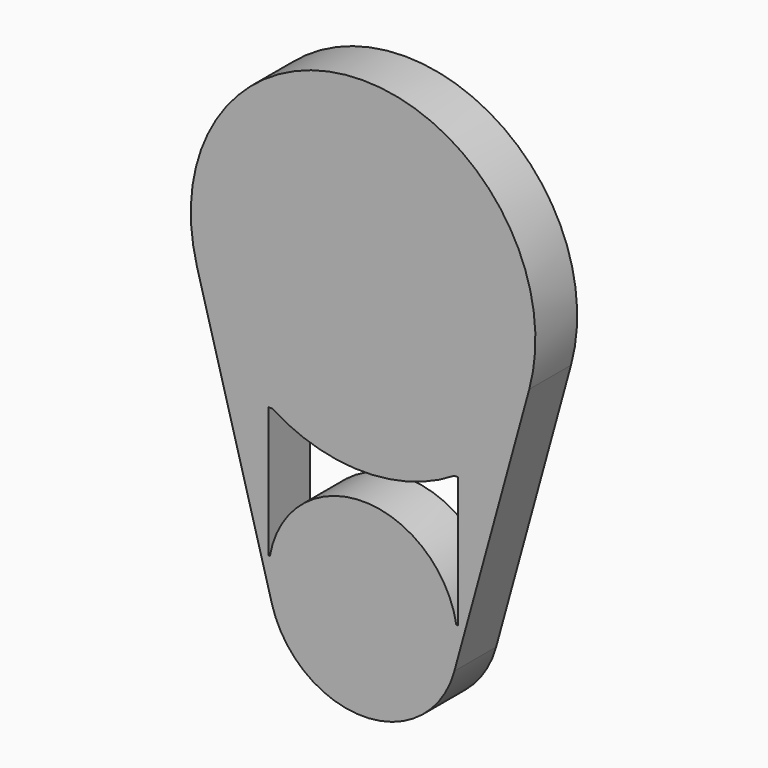
from build123d import *

# Parameters (mm, degrees)
F1_DEPTH = 25.4


with BuildPart() as f1:
    # F0 (on Front) → F1 (new body)
    with BuildSketch(Plane.XZ):
        with BuildLine():
            Line((44.391164, -51.888976), (80.822532, 80.6549))
            ThreePointArc((80.822532, 80.6549), (0, 186.69), (-80.822532, 80.6549))
            Line((-80.822532, 80.6549), (-44.391164, -51.888976))
            ThreePointArc((-44.391164, -51.888976), (0, -85.725), (44.391164, -51.888976))
        make_face()
        with BuildLine():
            Line((44.359193, 31.75), (46.0375, 31.75))
            Line((46.0375, 31.75), (46.0375, -31.75))
            Line((46.0375, -31.75), (45.348071, -31.75))
            ThreePointArc((45.348071, -31.75), (0, 6.35), (-45.348071, -31.75))
            Line((-45.348071, -31.75), (-46.0375, -31.75))
            Line((-46.0375, -31.75), (-46.0375, 31.75))
            Line((-46.0375, 31.75), (-44.359193, 31.75))
            ThreePointArc((-44.359193, 31.75), (0, 19.05), (44.359193, 31.75))
        make_face(mode=Mode.SUBTRACT)
    extrude(amount=F1_DEPTH)


solid = f1.part
